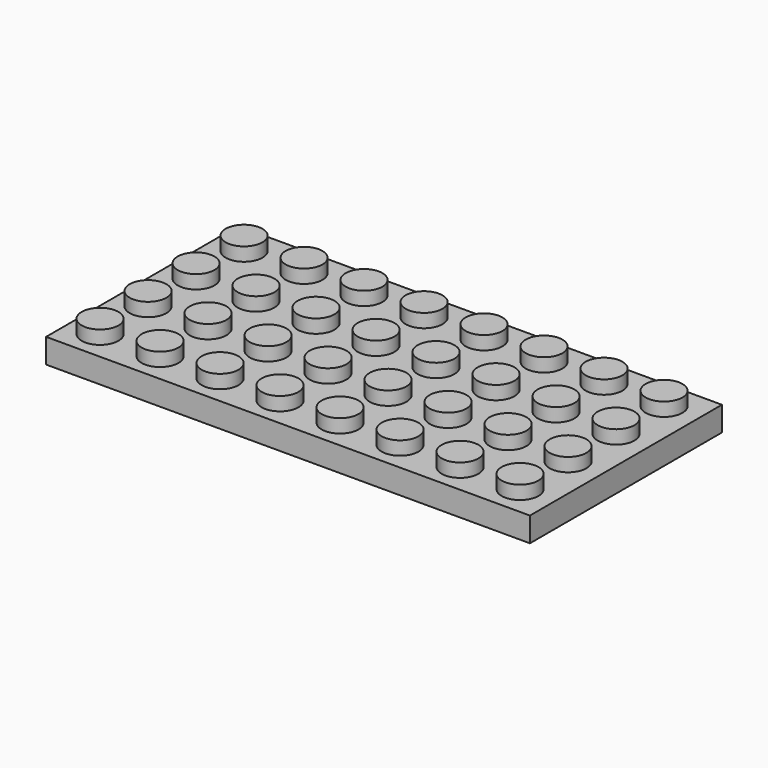
from build123d import *

# Parameters (mm, degrees)
F0_W     = 63.5
F0_H     = 31.496
F1_DEPTH = 3.20802
F2_R     = 2.413
F3_DEPTH = 1.778
F4_T     = -1.5748
F6_R     = 3.048
F6_R_2   = 2.286
F7_DEPTH = 1.58148


with BuildPart() as f1:
    # F0 (on Top) → F1 (new body)
    with BuildSketch(Plane.XY):
        Rectangle(F0_W, F0_H)
    extrude(amount=-F1_DEPTH)

    # F2 (on face) → F3 (join)
    with BuildSketch(Plane.XY):
        with Locations((-27.813, 11.811)):
            Circle(F2_R)
        with Locations((-19.939, 11.811)):
            Circle(F2_R)
        with Locations((-12.065, 11.811)):
            Circle(F2_R)
        with Locations((-4.191, 11.811)):
            Circle(F2_R)
        with Locations((3.683, 11.811)):
            Circle(F2_R)
        with Locations((11.557, 11.811)):
            Circle(F2_R)
        with Locations((19.431, 11.811)):
            Circle(F2_R)
        with Locations((27.305, 11.811)):
            Circle(F2_R)
        with Locations((27.305, 3.937)):
            Circle(F2_R)
        with Locations((19.431, 3.937)):
            Circle(F2_R)
        with Locations((11.557, 3.937)):
            Circle(F2_R)
        with Locations((3.683, 3.937)):
            Circle(F2_R)
        with Locations((-4.191, 3.937)):
            Circle(F2_R)
        with Locations((-12.065, 3.937)):
            Circle(F2_R)
        with Locations((-19.939, 3.937)):
            Circle(F2_R)
        with Locations((-27.813, 3.937)):
            Circle(F2_R)
        with Locations((-27.813, -3.937)):
            Circle(F2_R)
        with Locations((-19.939, -3.937)):
            Circle(F2_R)
        with Locations((-12.065, -3.937)):
            Circle(F2_R)
        with Locations((-4.191, -3.937)):
            Circle(F2_R)
        with Locations((3.683, -3.937)):
            Circle(F2_R)
        with Locations((11.557, -3.937)):
            Circle(F2_R)
        with Locations((19.431, -3.937)):
            Circle(F2_R)
        with Locations((27.305, -3.937)):
            Circle(F2_R)
        with Locations((27.305, -11.811)):
            Circle(F2_R)
        with Locations((19.431, -11.811)):
            Circle(F2_R)
        with Locations((11.557, -11.811)):
            Circle(F2_R)
        with Locations((-4.191, -11.811)):
            Circle(F2_R)
        with Locations((-12.065, -11.811)):
            Circle(F2_R)
        with Locations((-19.939, -11.811)):
            Circle(F2_R)
        with Locations((-27.813, -11.811)):
            Circle(F2_R)
        with Locations((3.683, -11.811)):
            Circle(F2_R)
    extrude(amount=F3_DEPTH)

    # F4
    f4_openings = [f1.faces().sort_by_distance(p)[0] for p in [
        (0, 0, -3.20802),
    ]]
    offset(amount=F4_T, openings=f4_openings, kind=Kind.INTERSECTION)

    # F6 (on face) → F7 (join)
    with BuildSketch(Plane(origin=(0, 0, -1.5748), x_dir=(1, 0, 0), z_dir=(0, 0, -1))):
        with Locations((-0.2032, 0)):
            Circle(F6_R)
        with Locations((-0.2032, 0)):
            Circle(F6_R_2, mode=Mode.SUBTRACT)
        with Locations((23.4188, 0)):
            Circle(F6_R)
        with Locations((23.4188, 0)):
            Circle(F6_R_2, mode=Mode.SUBTRACT)
        with Locations((23.4188, -7.8232)):
            Circle(F6_R)
        with Locations((23.4188, -7.8232)):
            Circle(F6_R_2, mode=Mode.SUBTRACT)
        with Locations((15.5448, -7.8232)):
            Circle(F6_R)
        with Locations((15.5448, -7.8232)):
            Circle(F6_R_2, mode=Mode.SUBTRACT)
        with Locations((23.4188, 7.8232)):
            Circle(F6_R)
        with Locations((23.4188, 7.8232)):
            Circle(F6_R_2, mode=Mode.SUBTRACT)
        with Locations((15.5448, 0)):
            Circle(F6_R)
        with Locations((15.5448, 0)):
            Circle(F6_R_2, mode=Mode.SUBTRACT)
        with Locations((15.5448, 7.8232)):
            Circle(F6_R)
        with Locations((15.5448, 7.8232)):
            Circle(F6_R_2, mode=Mode.SUBTRACT)
        with Locations((7.6708, 0)):
            Circle(F6_R)
        with Locations((7.6708, 0)):
            Circle(F6_R_2, mode=Mode.SUBTRACT)
        with Locations((-0.2032, -7.8232)):
            Circle(F6_R)
        with Locations((-0.2032, -7.8232)):
            Circle(F6_R_2, mode=Mode.SUBTRACT)
        with Locations((7.6708, 7.8232)):
            Circle(F6_R)
        with Locations((7.6708, 7.8232)):
            Circle(F6_R_2, mode=Mode.SUBTRACT)
        with Locations((-0.2032, 7.8232)):
            Circle(F6_R)
        with Locations((-0.2032, 7.8232)):
            Circle(F6_R_2, mode=Mode.SUBTRACT)
        with Locations((-8.0772, -7.8232)):
            Circle(F6_R)
        with Locations((-8.0772, -7.8232)):
            Circle(F6_R_2, mode=Mode.SUBTRACT)
        with Locations((7.6708, -7.8232)):
            Circle(F6_R)
        with Locations((7.6708, -7.8232)):
            Circle(F6_R_2, mode=Mode.SUBTRACT)
        with Locations((-23.8252, 0)):
            Circle(F6_R)
        with Locations((-23.8252, 0)):
            Circle(F6_R_2, mode=Mode.SUBTRACT)
        with Locations((-23.8252, 7.8232)):
            Circle(F6_R)
        with Locations((-23.8252, 7.8232)):
            Circle(F6_R_2, mode=Mode.SUBTRACT)
        with Locations((-8.0772, 7.8232)):
            Circle(F6_R)
        with Locations((-8.0772, 7.8232)):
            Circle(F6_R_2, mode=Mode.SUBTRACT)
        with Locations((-15.9512, 7.8232)):
            Circle(F6_R)
        with Locations((-15.9512, 7.8232)):
            Circle(F6_R_2, mode=Mode.SUBTRACT)
        with Locations((-8.0772, 0)):
            Circle(F6_R)
        with Locations((-8.0772, 0)):
            Circle(F6_R_2, mode=Mode.SUBTRACT)
        with Locations((-15.9512, 0)):
            Circle(F6_R)
        with Locations((-15.9512, 0)):
            Circle(F6_R_2, mode=Mode.SUBTRACT)
        with Locations((-15.9512, -7.8232)):
            Circle(F6_R)
        with Locations((-15.9512, -7.8232)):
            Circle(F6_R_2, mode=Mode.SUBTRACT)
        with Locations((-23.8252, -7.8232)):
            Circle(F6_R)
        with Locations((-23.8252, -7.8232)):
            Circle(F6_R_2, mode=Mode.SUBTRACT)
    extrude(amount=F7_DEPTH)


solid = f1.part
